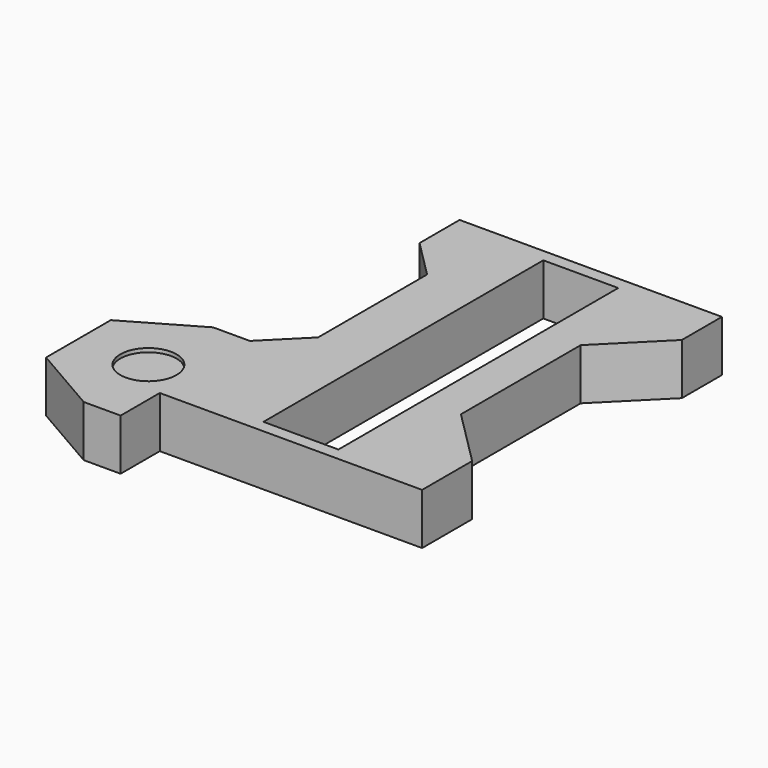
from build123d import *

# Parameters (mm, degrees)
SKETCH_R        = 2.25
SKETCH_W        = 6
SKETCH_H        = 28
PAD_DEPTH       = 4.1
POCKET_DEPTH    = 3.5
SKETCH003_W     = 21
SKETCH003_H     = 4.1
POCKET001_DEPTH = 1
SKETCH002_R     = 2.25
PAD001_DEPTH    = 0.3


with BuildPart() as part:
    # Sketch → Pad (new body)
    with BuildSketch(Plane.XY):
        Polygon((-10.5, 15.5), (10.5, 15.5), (10.5, 10.491002), (6, 5.991002), (6, -5.991002), (10.5, -10.491002), (10.5, -15.5), (-10.5, -15.5), (-10.5, -17.717136), (-10.5, -19.420319), (-13.45, -19.420319), (-19.053461, -16.18516), (-19.053461, -9.71484), (-13.45, -6.479681), (-10.508209, -6.479681), (-7.472105, -3.443576), (-7.472105, 7.463107), (-10.5, 10.491002), align=None)
        with Locations((-13.45, -12.95)):
            Circle(SKETCH_R, mode=Mode.SUBTRACT)
        with Locations((0, -0.5)):
            Rectangle(SKETCH_W, SKETCH_H, mode=Mode.SUBTRACT)
    extrude(amount=PAD_DEPTH)

    # Sketch001 → Pocket (cut)
    with BuildSketch(Plane(origin=(0, 0, 0), x_dir=(1, 0, 0), z_dir=(0, 0, -1))):
        Polygon((-13.45, 8.879681), (-9.925, 10.91484), (-9.925, 14.98516), (-13.45, 17.020319), (-16.975, 14.98516), (-16.975, 10.91484), align=None)
    extrude(amount=-POCKET_DEPTH, mode=Mode.SUBTRACT)

    # Sketch003 → Pocket001 (cut)
    with BuildSketch(Plane(origin=(0, 15.5, 0), x_dir=(-1, 0, 0), z_dir=(0, 1, 0))):
        with Locations((0, 2.05)):
            Rectangle(SKETCH003_W, SKETCH003_H)
    extrude(amount=-POCKET001_DEPTH, mode=Mode.SUBTRACT)

    # Sketch002 → Pad001 (new body)
    with BuildSketch(Plane(origin=(0, 0, 3.5), x_dir=(1, 0, 0), z_dir=(0, 0, -1))):
        with Locations((-13.45, 12.95)):
            Circle(SKETCH002_R)
    extrude(amount=-PAD001_DEPTH)


solid = part.part
